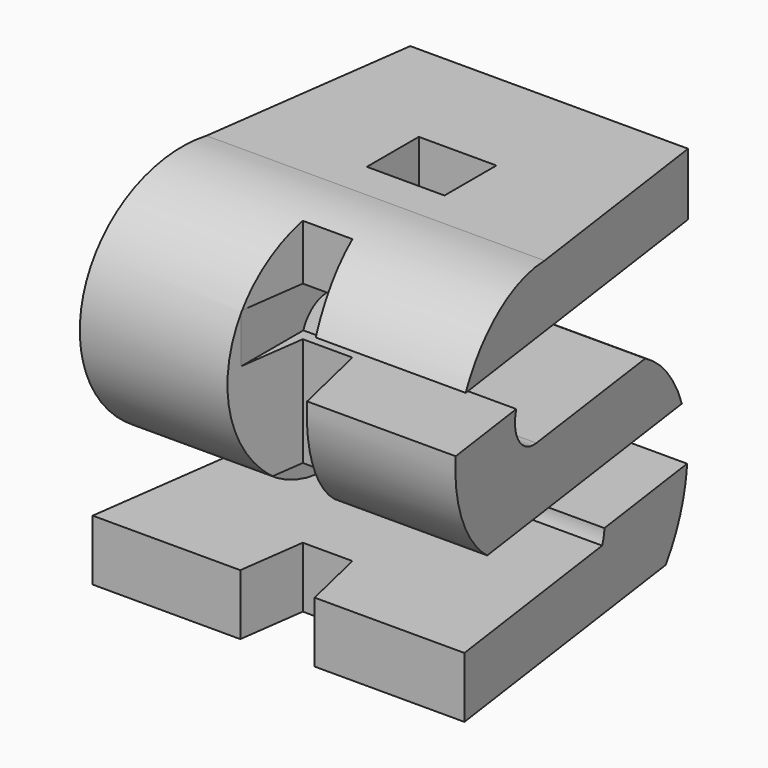
from build123d import *

# Parameters (mm, degrees)
F0_W     = 20.4098373652
F0_H     = 17.0696731657
F3_DEPTH = 50
F1_W     = 39.9590164423
F1_H     = 21.9808734953
F1_H_2   = 12.8620229661
F1_W_2   = 10.0409835577
F1_H_3   = 15.1571035385
F1_W_3   = 50
F1_H_4   = 13.4836062789
F1_H_5   = 14.8224066943
F1_H_6   = 21.6939870268
F4_DEPTH = 50
F5_DEPTH = 50


with BuildPart() as f3:
    # F0 (on Top) → F3 (new body, symmetric)
    with BuildSketch(Plane.XY):
        Polygon((-36.4268427715, 50), (-50, -50), (-11.1948736012, -50), (-7.6906718126, -24.1828542203), (5.3497580811, -24.1828542203), (11.394909583, -50), (50, -50), (35.9016373754, 50), align=None)
        with Locations((0, 8.5348365828)):
            Rectangle(F0_W, F0_H, mode=Mode.SUBTRACT)
    extrude(amount=F3_DEPTH, both=True)

    # F1 (on Front) → F4 (intersect, symmetric)
    with BuildSketch(Plane.XZ):
        with Locations((-30.0204917789, 39.0095632523)):
            Rectangle(F1_W, F1_H)
        with Locations((-30.0204917789, 21.5881150216)):
            Rectangle(F1_W, F1_H_2)
        with Locations((-5.0204917789, 39.0095632523)):
            Rectangle(F1_W_2, F1_H)
        with Locations((-30.0204917789, 7.5785517693)):
            Rectangle(F1_W, F1_H_3)
        with Locations((25, 39.0095632523)):
            Rectangle(F1_W_3, F1_H)
        with Locations((-30.0204917789, -6.7418031394)):
            Rectangle(F1_W, F1_H_4)
        with Locations((-5.0204917789, 7.5785517693)):
            Rectangle(F1_W_2, F1_H_3)
        with Locations((-30.0204917789, -20.894809626)):
            Rectangle(F1_W, F1_H_5)
        with Locations((-5.0204917789, -6.7418031394)):
            Rectangle(F1_W_2, F1_H_4)
        with Locations((25, 7.5785517693)):
            Rectangle(F1_W_3, F1_H_3)
        Polygon((-10.0409835577, -28.3060129732), (-50, -28.3060129732), (-50, -50), (0, -50), (0, -28.3060129732), align=None)
        with Locations((25, -6.7418031394)):
            Rectangle(F1_W_3, F1_H_4)
        with Locations((25, -39.1530064866)):
            Rectangle(F1_W_3, F1_H_6)
    extrude(amount=F4_DEPTH, both=True, mode=Mode.INTERSECT)

    # F2 (on Right) → F5 (intersect, symmetric)
    with BuildSketch(Plane.YZ):
        with BuildLine():
            ThreePointArc((-13.0180147375, 3.6492112836), (-21.5699932759, 12.268680348), (-12.9113338643, 20.780977398))
            Line((-12.9113338643, 20.780977398), (47.4755875766, 20.1275501))
            Line((47.4755875766, 20.1275501), (47.4755875766, 44.3933308125))
            Line((47.4755875766, 44.3933308125), (-9.7670806572, 44.3933308125))
            ThreePointArc((-9.7670806572, 44.3933308125), (-45.3037856876, 13.8358446009), (-13.0040198565, -20.1250519603))
            Line((-13.0040198565, -20.1250519603), (9.9475071912, -20.1250519603))
            ThreePointArc((9.9475071912, -20.1250519603), (13.7797693487, -25.4229853105), (13.1929796225, -31.9352820516))
            Line((13.1929796225, -31.9352820516), (9.74121131, -31.9352820516))
            Line((9.74121131, -31.9352820516), (-41.7333990335, -31.9352820516))
            Line((-41.7333990335, -31.9352820516), (-41.7333990335, -47.8897877038))
            Line((-41.7333990335, -47.8897877038), (33.7939150631, -47.8897877038))
            Line((33.7939150631, -47.8897877038), (38.5303236544, -47.8897877038))
            ThreePointArc((38.5303236544, -47.8897877038), (46.7972185844, -20.2080841435), (30.4012625826, 3.5782751947))
            Line((30.4012625826, 3.5782751947), (-13.0180147375, 3.6492112836))
        make_face()
    extrude(amount=F5_DEPTH, both=True, mode=Mode.INTERSECT)


solid = f3.part
